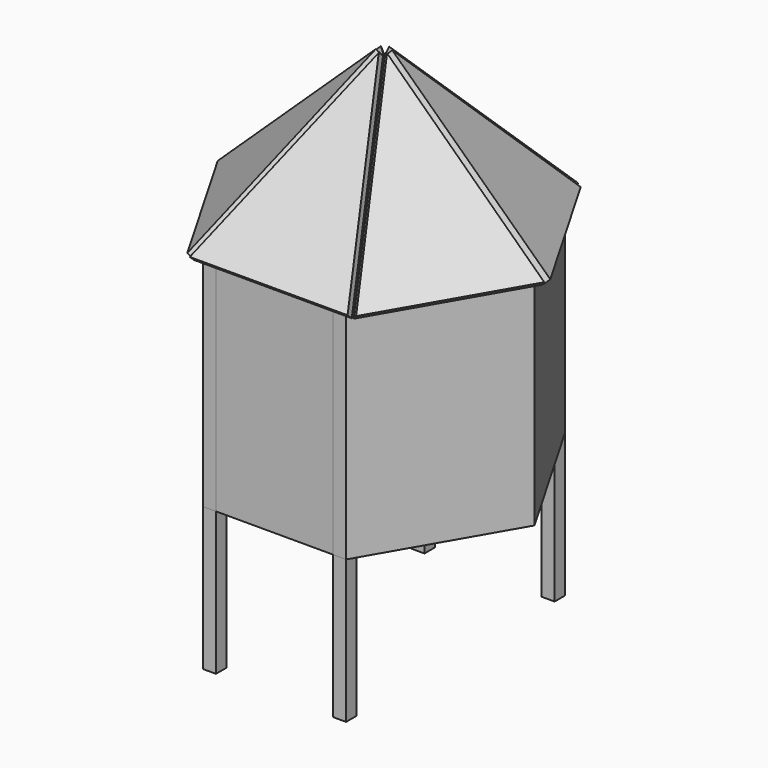
from build123d import *

# Parameters (mm, degrees)
F1_DEPTH  = 6
F2_W      = 9
F2_H      = 9
F3_DEPTH  = 150
F5_W      = 82
F5_H      = 9
F6_DEPTH  = 150
F8_DEPTH  = 100
F10_DEPTH = 150
F12_W     = 46.3100634515
F12_H     = 43.1039780378
F13_DEPTH = 6
F16_DEPTH = 150
F17_DEPTH = 150
F22_DEPTH = 5
F23_COUNT = 6


with BuildPart() as f1:
    # F0 (on Top) → F1 (new body)
    with BuildSketch(Plane.XY):
        Polygon((100, 0), (50, 86.6025403784), (-50, 86.6025403784), (-100, 0), (-50, -86.6025403784), (50, -86.6025403784), align=None)
    extrude(amount=F1_DEPTH)

    # F12 (on face) → F13 (cut, through all)
    with BuildSketch(Plane.XY.offset(6)):
        with Locations((2.0888131112, -61.2717717886)):
            Rectangle(F12_W, F12_H)
    extrude(amount=-F13_DEPTH, mode=Mode.SUBTRACT)


with BuildPart() as f3:
    # F2 (on Top) → F3 (new body)
    with BuildSketch(Plane.XY):
        with Locations((-45.5, 91.1025403784)):
            Rectangle(F2_W, F2_H)
    extrude(amount=F3_DEPTH)


with BuildPart() as f3b:
    # F2 (on Top) → F3, piece 2 (new body)
    with BuildSketch(Plane.XY):
        with Locations((45.5, 91.1025403784)):
            Rectangle(F2_W, F2_H)
    extrude(amount=F3_DEPTH)

    # F9 (on offset) → F10 (join)
    with BuildSketch(Plane.XY.offset(150)):
        Polygon((50, 95.6025403784), (50, 86.6025403784), (100, 0), (105.1961524227, 0), align=None)
    extrude(amount=-F10_DEPTH)


with BuildPart() as f3c:
    # F2 (on Top) → F3, piece 3 (new body)
    with BuildSketch(Plane.XY):
        with Locations((-45.5, -91.1025403784)):
            Rectangle(F2_W, F2_H)
    extrude(amount=F3_DEPTH)


with BuildPart() as f3d:
    # F2 (on Top) → F3, piece 4 (new body)
    with BuildSketch(Plane.XY):
        with Locations((45.5, -91.1025403784)):
            Rectangle(F2_W, F2_H)
    extrude(amount=F3_DEPTH)


with BuildPart() as f6:
    # F5 (on offset) → F6 (new body)
    with BuildSketch(Plane.XY.offset(150)):
        with Locations((0, 91.1025403784)):
            Rectangle(F5_W, F5_H)
    extrude(amount=-F6_DEPTH)


with BuildPart() as f7_1:
    # F7: instance of F6
    add(f6.part.mirror(Plane.XZ))


with BuildPart() as f8:
    # F2 (on Top) → F8 (new body)
    with BuildSketch(Plane.XY):
        with Locations((-45.5, 91.1025403784)):
            Rectangle(F2_W, F2_H)
    extrude(amount=-F8_DEPTH)


with BuildPart() as f8b:
    # F2 (on Top) → F8, piece 2 (new body)
    with BuildSketch(Plane.XY):
        with Locations((45.5, 91.1025403784)):
            Rectangle(F2_W, F2_H)
    extrude(amount=-F8_DEPTH)


with BuildPart() as f8c:
    # F2 (on Top) → F8, piece 3 (new body)
    with BuildSketch(Plane.XY):
        with Locations((-45.5, -91.1025403784)):
            Rectangle(F2_W, F2_H)
    extrude(amount=-F8_DEPTH)


with BuildPart() as f8d:
    # F2 (on Top) → F8, piece 4 (new body)
    with BuildSketch(Plane.XY):
        with Locations((45.5, -91.1025403784)):
            Rectangle(F2_W, F2_H)
    extrude(amount=-F8_DEPTH)


with BuildPart() as f16:
    # F14 (on Top) → F16 (new body)
    with BuildSketch(Plane.XY):
        Polygon((105.1961524227, 0), (100, 0), (50, -86.6025403784), (50, -95.6025403784), align=None)
    extrude(amount=F16_DEPTH)


with BuildPart() as f17:
    # F15 (on Top) → F17 (new body)
    with BuildSketch(Plane.XY):
        Polygon((-100, 0), (-103.8159340531, -2.2031305528), (-50, -95.6025403784), (-50, -86.6025403784), align=None)
    extrude(amount=F17_DEPTH)


with BuildPart() as f22:
    # F21 (on 3pt) → F22 (new body)
    with BuildSketch(Plane(origin=(0, -127.578744879, 116.4735473025), x_dir=(-1, 0, 0), z_dir=(0, 0.7385183345, -0.674233394))):
        Polygon((55.5640310049, 45.9405779839), (0, 187.941133976), (-54.7474101186, 45.9405779839), align=None)
    extrude(amount=-F22_DEPTH)


with BuildPart() as f23_1:
    # F23: instance of F22
    add(f22.part.rotate(Axis((0, 0, 98.5653661191), (0, 0, -1)), 1 * 360 / F23_COUNT))


with BuildPart() as f23_2:
    # F23: instance of F22
    add(f22.part.rotate(Axis((0, 0, 98.5653661191), (0, 0, -1)), 2 * 360 / F23_COUNT))


with BuildPart() as f23_3:
    # F23: instance of F22
    add(f22.part.rotate(Axis((0, 0, 98.5653661191), (0, 0, -1)), 3 * 360 / F23_COUNT))


with BuildPart() as f23_4:
    # F23: instance of F22
    add(f22.part.rotate(Axis((0, 0, 98.5653661191), (0, 0, -1)), 4 * 360 / F23_COUNT))


with BuildPart() as f23_5:
    # F23: instance of F22
    add(f22.part.rotate(Axis((0, 0, 98.5653661191), (0, 0, -1)), 5 * 360 / F23_COUNT))


solid = Compound([f1.part, f3.part, f3b.part, f3c.part, f3d.part, f6.part, f7_1.part, f8.part, f8b.part, f8c.part, f8d.part, f16.part, f17.part, f22.part, f23_1.part, f23_2.part, f23_3.part, f23_4.part, f23_5.part])
